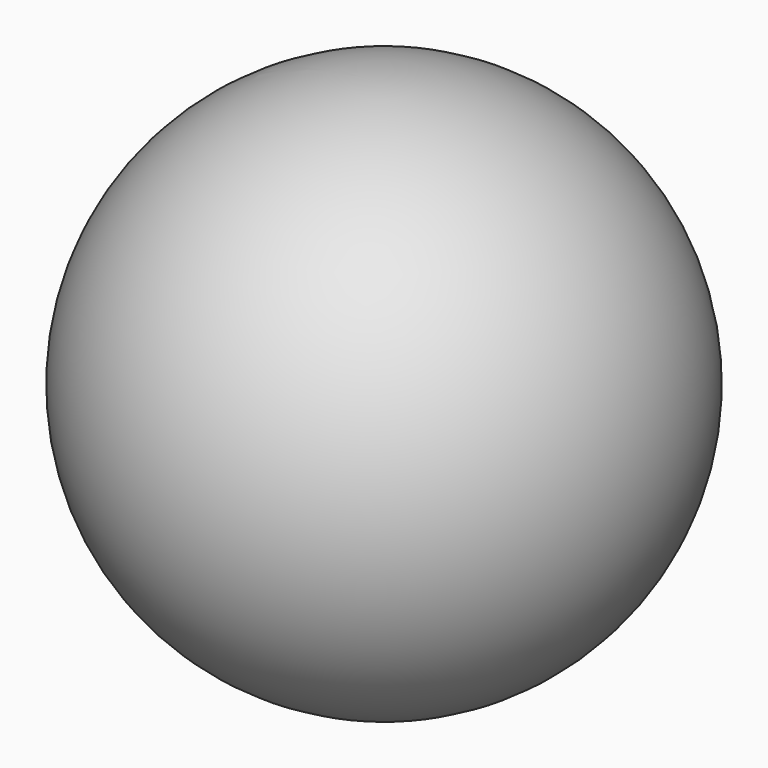
from build123d import *

# Parameters (mm, degrees)
F2_R     = 3.1976109727
F2_R_2   = 3.1993537385
F2_R_3   = 1.963569916
F2_R_4   = 2.0759061959
F2_R_5   = 1.9595670947
F3_DEPTH = 108.966


with BuildPart() as f1:
    # F0 (on Front) → F1 (revolve)
    with BuildSketch(Plane.XZ):
        with BuildLine():
            Line((0, -56.9752264897), (0, 56.9752264897))
            ThreePointArc((0, 56.9752264897), (-56.9752264897, 0), (0, -56.9752264897))
        make_face()
    revolve(axis=Axis((0, 0, 0), (0, 0, 1)))

    # F2 (on Front) → F3 (cut)
    with BuildSketch(Plane.XZ):
        with BuildLine():
            ThreePointArc((-4.4806350324, 38.2237012756), (-11.1800710632, 6.2013164518), (18.2092561325, 20.5743126571))
            ThreePointArc((18.2092561325, 20.5743126571), (11.1800710632, 34.9473088625), (-4.4806350324, 38.2237012756))
        make_face()
        with BuildLine():
            add(Edge.make_bspline(
                [(-8.9410888031, 16.928512603), (-10.6912410403, 16.7138331564), (-14.1455822037, 11.5578525531), (-0.1250232468, 6.4887483433), (12.8111673669, 10.6620510675), (7.2050893256, 18.5217920132), (0.017963777, 11.1046430802), (-6.4461017259, 17.2345559482), (-8.9410888031, 16.928512603)],
                knots=[0, 0, 0, 0, 0.1262083924, 0.3336795499, 0.5274109317, 0.6575861176, 0.8200794758, 1, 1, 1, 1], degree=3))
        make_face(mode=Mode.SUBTRACT)
        with Locations((-7.3441443965, 28.2858237624)):
            Circle(F2_R, mode=Mode.SUBTRACT)
        Polygon((0, 17.4584258348), (0, 20.5743126571), (7.0954021066, 20.5743126571), align=None, mode=Mode.SUBTRACT)
        with Locations((4.6641021036, 28.0412696302)):
            Circle(F2_R_2, mode=Mode.SUBTRACT)
        with BuildLine():
            add(Edge.make_bspline(
                [(23.964482263, -13.0005795857), (21.4609485106, -12.7660962171), (19.5956606248, -9.744154199), (20.4410515319, -7.3608856253)],
                knots=[0.8645727025, 0.8645727025, 0.8645727025, 0.8645727025, 1, 1, 1, 1], degree=3))
            ThreePointArc((20.4410515319, -7.3608856253), (0, 2.3379444963), (-20.4410515319, -7.3608856253))
            add(Edge.make_bspline(
                [(-24.193339703, -13.5110012326), (-21.4737703996, -13.0575668515), (-19.4459080685, -9.7000538961), (-20.4410515319, -7.3608856253)],
                knots=[0.8549842447, 0.8549842447, 0.8549842447, 0.8549842447, 1, 1, 1, 1], degree=3))
            ThreePointArc((-24.193339703, -13.5110012326), (-5.3837409934, -49.8870219735), (26.3899814225, -24.0520369262))
            ThreePointArc((26.3899814225, -24.0520369262), (25.7764753331, -18.394790345), (23.964482263, -13.0005795857))
        make_face()
        with Locations((0, -24.0520369262)):
            Circle(F2_R_3, mode=Mode.SUBTRACT)
        with Locations((0, -17.6354907453)):
            Circle(F2_R_4, mode=Mode.SUBTRACT)
        with Locations((0, -9.2205703259)):
            Circle(F2_R_5, mode=Mode.SUBTRACT)
        with BuildLine():
            add(Edge.make_bspline(
                [(20.4410515319, -7.3608856253), (21.6082915061, -4.0702820416), (33.5606500831, -0.1588593069), (26.0658427218, 12.4696285139), (34.4403037029, 13.8947414908), (38.5949314405, -0.6020014123), (28.0026541428, -13.378798631), (23.964482263, -13.0005795857)],
                knots=[0, 0, 0, 0, 0.1869858711, 0.3528022804, 0.4585504798, 0.6461299897, 0.8645727025, 0.8645727025, 0.8645727025, 0.8645727025], degree=3))
            ThreePointArc((20.4410515319, -7.3608856253), (22.3811169269, -10.0693074149), (23.964482263, -13.0005795857))
        make_face()
        with BuildLine():
            ThreePointArc((23.964482263, -13.0005795857), (22.3811169269, -10.0693074149), (20.4410515319, -7.3608856253))
            add(Edge.make_bspline(
                [(23.964482263, -13.0005795857), (21.4609485106, -12.7660962171), (19.5956606248, -9.744154199), (20.4410515319, -7.3608856253)],
                knots=[0.8645727025, 0.8645727025, 0.8645727025, 0.8645727025, 1, 1, 1, 1], degree=3))
        make_face()
        with BuildLine():
            add(Edge.make_bspline(
                [(-24.193339703, -13.5110012326), (-21.4737703996, -13.0575668515), (-19.4459080685, -9.7000538961), (-20.4410515319, -7.3608856253)],
                knots=[0.8549842447, 0.8549842447, 0.8549842447, 0.8549842447, 1, 1, 1, 1], degree=3))
            ThreePointArc((-20.4410515319, -7.3608856253), (-22.5280536382, -10.3072954315), (-24.193339703, -13.5110012326))
        make_face()
        with BuildLine():
            ThreePointArc((-24.193339703, -13.5110012326), (-22.5280536382, -10.3072954315), (-20.4410515319, -7.3608856253))
            add(Edge.make_bspline(
                [(-20.4410515319, -7.3608856253), (-21.6882409025, -4.4292622859), (-32.8151579968, -1.9570005501), (-26.1934196977, 9.6791648908), (-36.0291658, 9.4765916087), (-38.3858467002, -3.7721772407), (-28.1857895101, -14.1766632568), (-24.193339703, -13.5110012326)],
                knots=[0, 0, 0, 0, 0.1817447586, 0.3373002554, 0.4589578387, 0.6420946069, 0.8549842447, 0.8549842447, 0.8549842447, 0.8549842447], degree=3))
        make_face()
    extrude(amount=-F3_DEPTH, mode=Mode.SUBTRACT)


solid = f1.part
